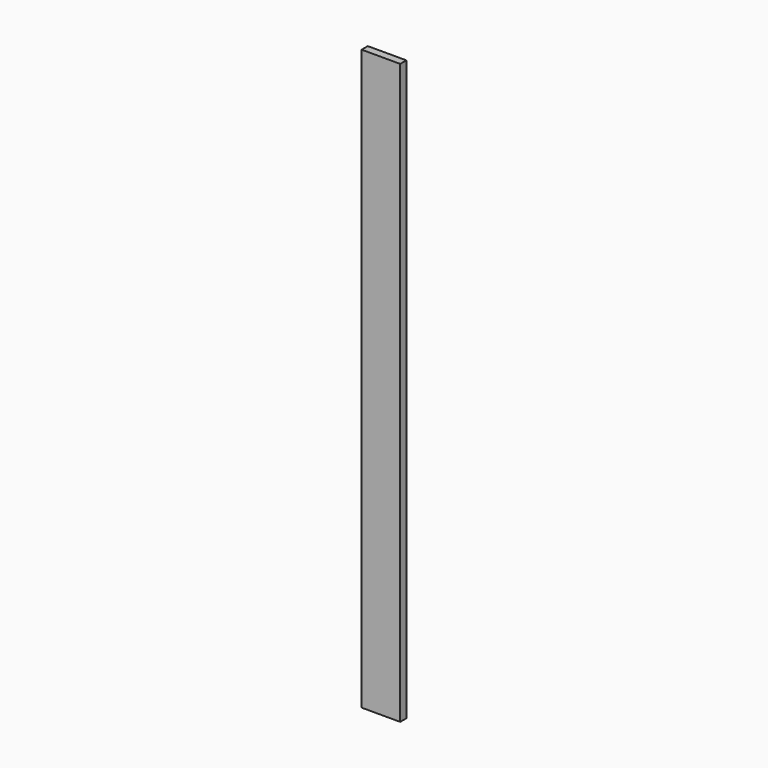
from build123d import *

# Parameters (mm, degrees)
SKETCH_W  = 100
SKETCH_H  = 20
PAD_DEPTH = 1500


with BuildPart() as part:
    # Sketch → Pad (new body)
    with BuildSketch(Plane.XY):
        with Locations((-50, 10)):
            Rectangle(SKETCH_W, SKETCH_H)
    extrude(amount=PAD_DEPTH)


solid = part.part
